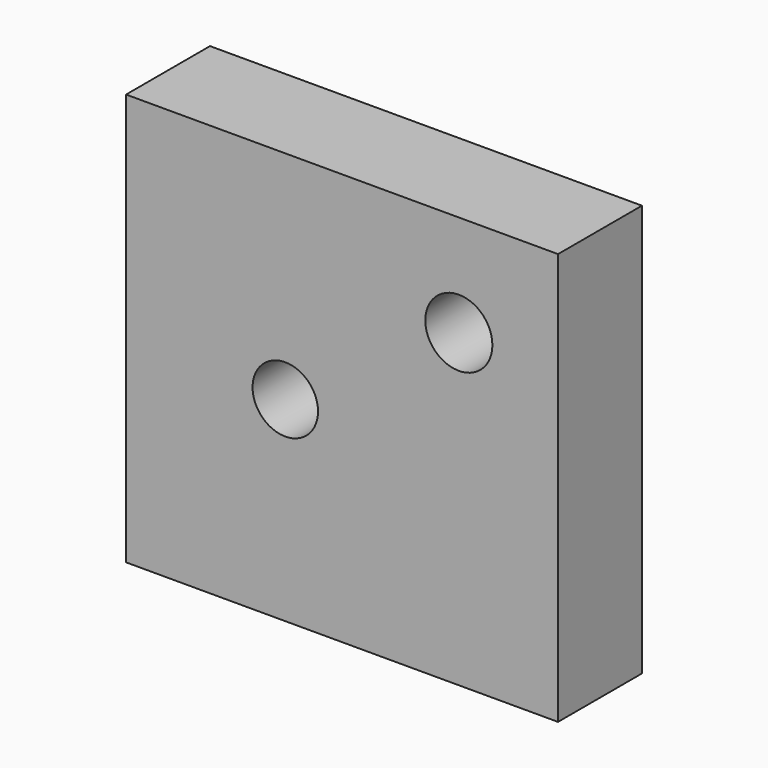
from build123d import *

# Parameters (mm, degrees)
F0_W     = 21.45
F0_H     = 20.45
F1_DEPTH = 5.21
F2_R     = 1.665
F2_R_2   = 1.625
F3_DEPTH = 5.211


with BuildPart() as f1:
    # F0 (on Front) → F1 (new body)
    with BuildSketch(Plane.XZ):
        Rectangle(F0_W, F0_H)
    extrude(amount=F1_DEPTH)

    # F2 (on face) → F3 (cut, through all)
    with BuildSketch(Plane.XZ.offset(5.21)):
        with Locations((5.8, 5.185)):
            Circle(F2_R)
        with Locations((-2.817742, -0.53)):
            Circle(F2_R_2)
    extrude(amount=-F3_DEPTH, mode=Mode.SUBTRACT)


solid = f1.part
